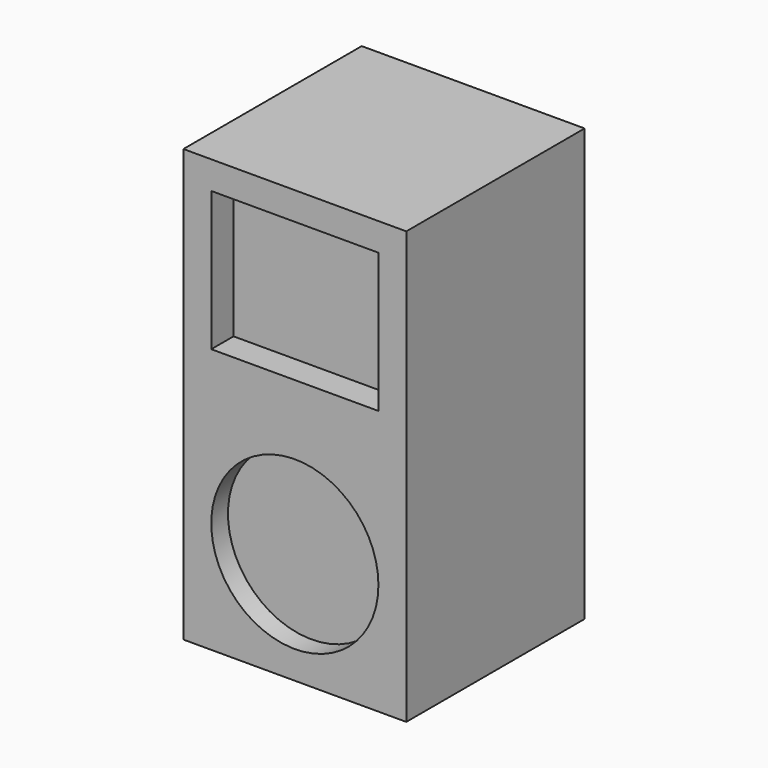
from build123d import *

# Parameters (mm, degrees)
F0_W      = 203.2
F0_H      = 393.7
F1_DEPTH  = 203.2
F2_R      = 76.2
F2_W      = 152.4
F2_H      = 127
F3_DEPTH  = 25.4
F3_FACE_R = 76.2
F4_DEPTH  = 6.35


with BuildPart() as f1:
    # F0 (on Front) → F1 (new body)
    with BuildSketch(Plane.XZ):
        with Locations((101.6, -196.85)):
            Rectangle(F0_W, F0_H)
    extrude(amount=-F1_DEPTH)

    # F2 (on face) → F3 (cut)
    with BuildSketch(Plane.XZ):
        with Locations((101.6, -292.1)):
            Circle(F2_R)
        with Locations((101.6, -88.9)):
            Rectangle(F2_W, F2_H)
    extrude(amount=-F3_DEPTH, mode=Mode.SUBTRACT)


with BuildPart() as f4:
    # F3_face (on face) → F4 (new body)
    with BuildSketch(Plane(origin=(101.6, 25.4, -292.1), x_dir=(1, 0, 0), z_dir=(0, -1, 0))):
        Circle(F3_FACE_R)
    extrude(amount=F4_DEPTH)


solid = Compound([f1.part, f4.part])
